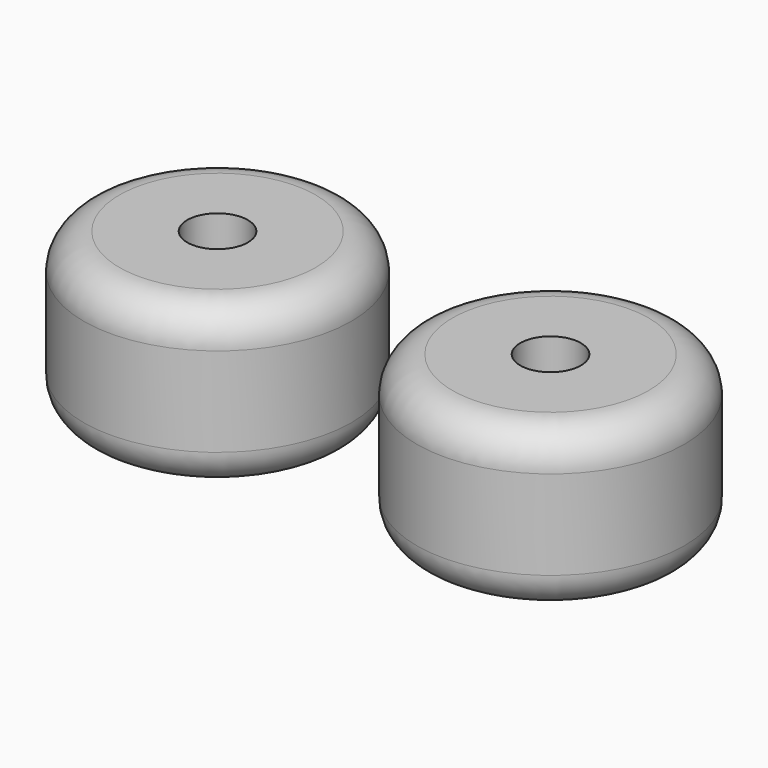
from build123d import *

# Parameters (mm, degrees)
F0_R     = 19.05
F1_DEPTH = 22.86
F2_R     = 4.318
F3_DEPTH = 13.97
F5_DEPTH = 4.826
F6_R     = 5.08


with BuildPart() as f1:
    # F0 (on Top) → F1 (new body)
    with BuildSketch(Plane.XY):
        with Locations((-23.687395, 26.176361)):
            Circle(F0_R)
        with Locations((23.687395, 26.176361)):
            Circle(F0_R)
    extrude(amount=F1_DEPTH)

    # F2 (on face) → F3 (cut)
    with BuildSketch(Plane.XY.offset(22.86)):
        with Locations((-23.687395, 26.176361)):
            Circle(F2_R)
        with Locations((23.687395, 26.176361)):
            Circle(F2_R)
    extrude(amount=-F3_DEPTH, mode=Mode.SUBTRACT)

    # F4 (on face) → F5 (cut)
    with BuildSketch(Plane.XY.offset(8.89)):
        Polygon((-21.55482, 22.840268), (-19.731967, 26.355179), (-21.864542, 29.691271), (-25.81997, 29.512453), (-27.642823, 25.997542), (-25.510248, 22.66145), align=None)
        Polygon((25.81997, 29.512453), (21.864542, 29.691271), (19.731967, 26.355179), (21.55482, 22.840268), (25.510248, 22.66145), (27.642823, 25.997542), align=None)
    extrude(amount=-F5_DEPTH, mode=Mode.SUBTRACT)

    # F6
    f6_edges = [f1.edges().sort_by_distance(p)[0] for p in [
        (-42.737395, 26.176361, 0),
        (-4.637395, 26.176361, 11.43),
        (-42.737395, 26.176361, 22.86),
        (4.637395, 26.176361, 0),
        (42.737395, 26.176361, 11.43),
        (4.637395, 26.176361, 22.86),
    ]]
    fillet(f6_edges, radius=F6_R)


solid = f1.part
